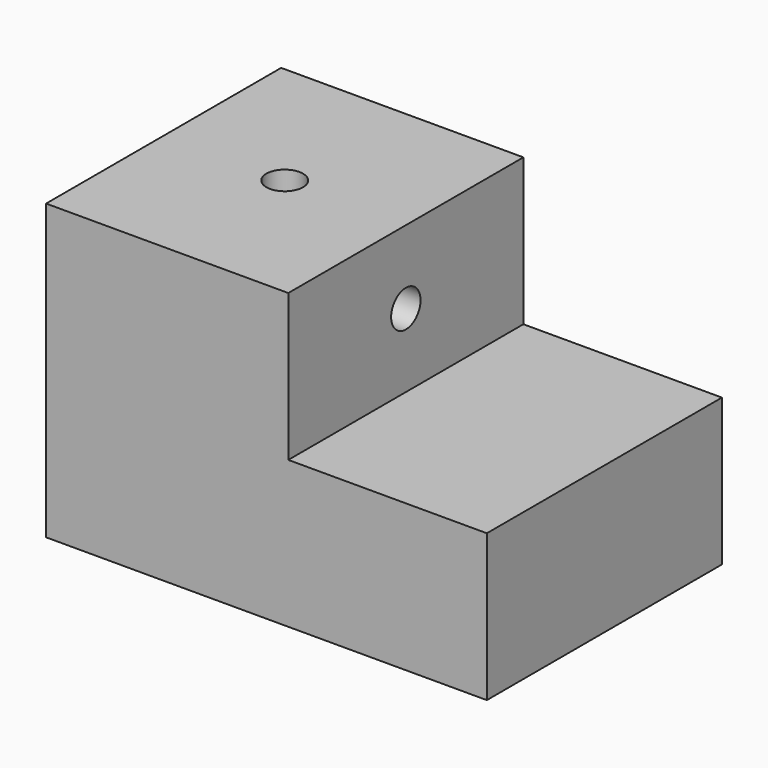
from build123d import *

# Parameters (mm, degrees)
F0_W     = 76.2
F0_H     = 50.8
F1_DEPTH = 25.4
F2_W     = 41.875984
F2_H     = 50.8
F3_DEPTH = 25.4
F5_D     = 6.35
F7_D     = 6.35


with BuildPart() as f1:
    # F0 (on Top) → F1 (new body)
    with BuildSketch(Plane.XY):
        with Locations((-3.775984, 14.951435)):
            Rectangle(F0_W, F0_H)
    extrude(amount=F1_DEPTH)

    # F2 (on face) → F3 (join)
    with BuildSketch(Plane.XY.offset(25.4)):
        with Locations((-20.937992, 14.951435)):
            Rectangle(F2_W, F2_H)
    extrude(amount=F3_DEPTH)

    # F5 (through all)
    with Locations(Plane.YZ):
        with Locations((14.951435, 38.1)):
            Hole(F5_D / 2)

    # F7 (through all)
    with Locations(Plane.XY.offset(50.8)):
        with Locations((-20.937992, 14.951435)):
            Hole(F7_D / 2)


solid = f1.part
